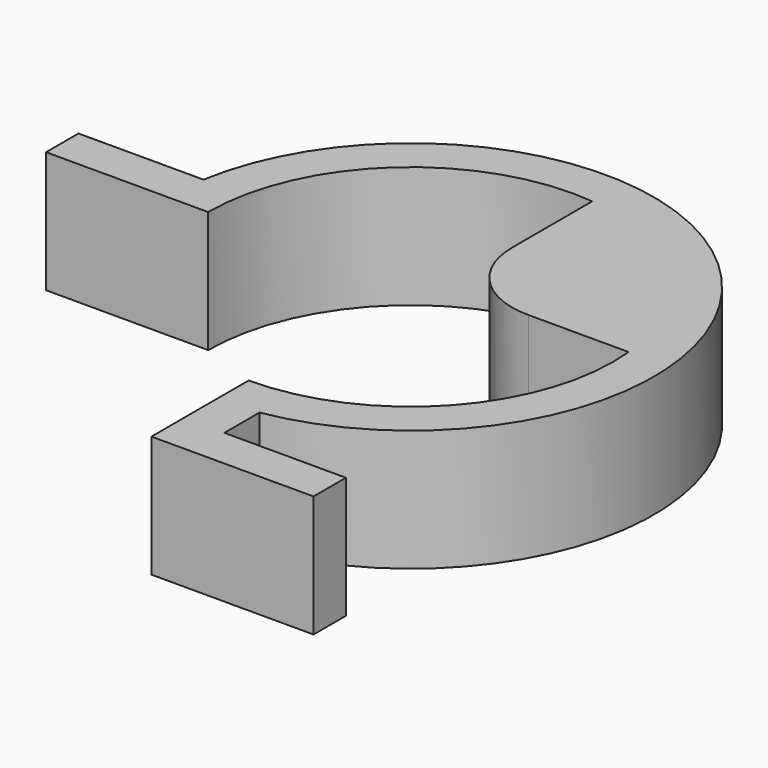
from build123d import *

# Parameters (mm, degrees)
F1_DEPTH = 9.525


with BuildPart() as f1:
    # F0 (on Top) → F1 (new body)
    with BuildSketch(Plane.XY):
        with BuildLine():
            ThreePointArc((15.795426, 1.5875), (11.773215, -10.649274), (0, -15.875))
            Line((0, -15.875), (0, -25.4))
            Line((0, -25.4), (12.7, -25.4))
            Line((12.7, -25.4), (12.7, -22.225))
            Line((12.7, -22.225), (3.175, -22.225))
            Line((3.175, -22.225), (3.175, -18.783553))
            ThreePointArc((3.175, -18.783553), (13.470384, 13.470384), (-18.783553, 3.175))
            Line((-18.783553, 3.175), (-28.575, 3.175))
            Line((-28.575, 3.175), (-28.575, 0))
            Line((-28.575, 0), (-15.875, 0))
            ThreePointArc((-15.875, 0), (-10.649274, 11.773215), (1.5875, 15.795426))
            Line((1.5875, 15.795426), (1.5875, 7.9375))
            ThreePointArc((1.5875, 7.9375), (3.447372, 3.447372), (7.9375, 1.5875))
            Line((7.9375, 1.5875), (15.795426, 1.5875))
        make_face()
    extrude(amount=F1_DEPTH)


solid = f1.part
